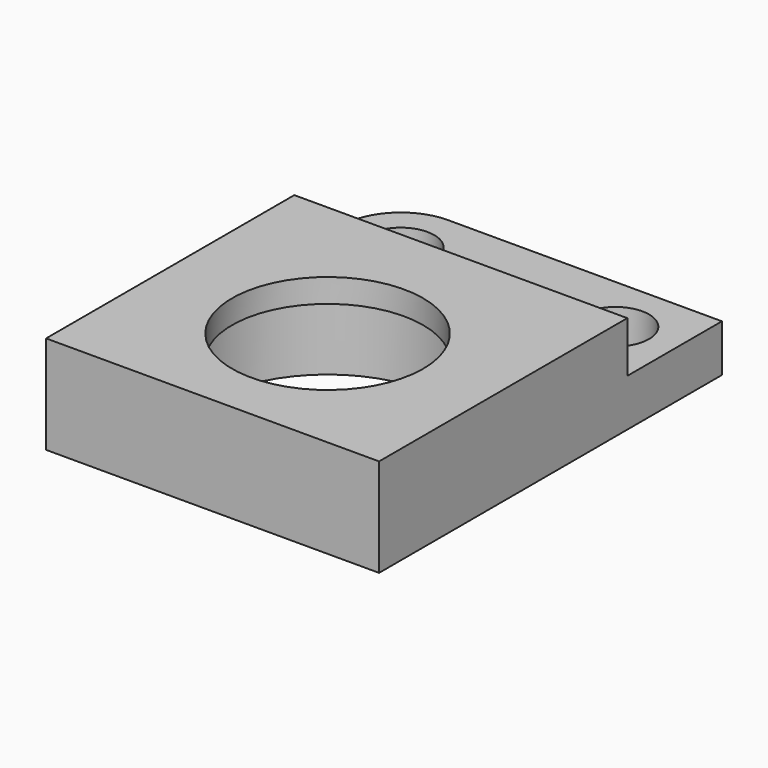
from build123d import *

# Parameters (mm, degrees)
F0_W     = 22.349994
F0_H     = 28.762516
F0_R     = 8
F0_R_2   = 2.2479
F1_DEPTH = 3.175
F2_W     = 22.349994
F2_H     = 20.825016
F2_R     = 8
F3_DEPTH = 1.82499
F4_W     = 22.349994
F4_H     = 20.825016
F4_R     = 8
F4_R_2   = 6.412497
F5_DEPTH = 1.5875
F6_R     = 3.96875


with BuildPart() as f1:
    # F0 (on Top) → F1 (new body)
    with BuildSketch(Plane.XY):
        with Locations((0, 14.381258)):
            Rectangle(F0_W, F0_H)
        with Locations((0, 9.650006)):
            Circle(F0_R, mode=Mode.SUBTRACT)
        with Locations((-7.206247, 24.793766)):
            Circle(F0_R_2, mode=Mode.SUBTRACT)
        with Locations((7.206247, 24.793766)):
            Circle(F0_R_2, mode=Mode.SUBTRACT)
    extrude(amount=F1_DEPTH)

    # F2 (on face) → F3 (join)
    with BuildSketch(Plane.XY.offset(3.175)):
        with Locations((0, 10.412508)):
            Rectangle(F2_W, F2_H)
        with Locations((0, 9.650006)):
            Circle(F2_R, mode=Mode.SUBTRACT)
    extrude(amount=F3_DEPTH)

    # F4 (on face) → F5 (join)
    with BuildSketch(Plane.XY.offset(4.99999)):
        with Locations((0, 10.412508)):
            Rectangle(F4_W, F4_H)
        with Locations((0, 9.650006)):
            Circle(F4_R, mode=Mode.SUBTRACT)
        with Locations((0, 9.650006)):
            Circle(F4_R)
        with Locations((0, 9.650006)):
            Circle(F4_R_2, mode=Mode.SUBTRACT)
    extrude(amount=F5_DEPTH)

    # F6
    f6_edges = [f1.edges().sort_by_distance(p)[0] for p in [
        (-11.174997, 28.762516, 1.5875),
    ]]
    fillet(f6_edges, radius=F6_R)


solid = f1.part
